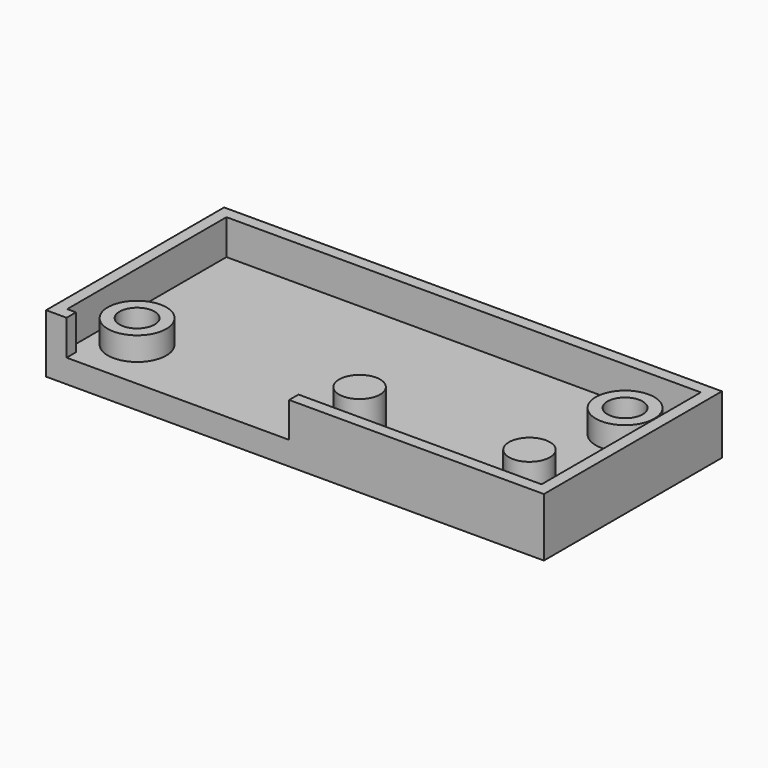
from build123d import *

# Parameters (mm, degrees)
SKETCH001_W   = 42.5
SKETCH001_H   = 19
SKETCH001_W_2 = 40.5
SKETCH001_H_2 = 17
PAD_DEPTH     = 3
SKETCH002_W   = 42.5
SKETCH002_H   = 19
SKETCH002_R   = 1.5
PAD001_DEPTH  = 2
SKETCH003_R   = 1.75
PAD002_DEPTH  = 3
POCKET_DEPTH  = 3.001
SKETCH005_R   = 2.5
SKETCH005_R_2 = 1.5
PAD003_DEPTH  = 2


with BuildPart() as part:
    # Sketch001 → Pad (new body)
    with BuildSketch(Plane.XY):
        with Locations((20, 8.1)):
            Rectangle(SKETCH001_W, SKETCH001_H)
        with Locations((20, 8.1)):
            Rectangle(SKETCH001_W_2, SKETCH001_H_2, mode=Mode.SUBTRACT)
    extrude(amount=PAD_DEPTH)

    # Sketch002 → Pad001 (join)
    with BuildSketch(Plane.XY):
        with Locations((20, 8.1)):
            Rectangle(SKETCH002_W, SKETCH002_H)
        with Locations((3, 3)):
            Circle(SKETCH002_R, mode=Mode.SUBTRACT)
        with Locations((36.5, 13.2)):
            Circle(SKETCH002_R, mode=Mode.SUBTRACT)
    extrude(amount=-PAD001_DEPTH)

    # Sketch003 → Pad002 (join)
    with BuildSketch(Plane.XY):
        with Locations((22, 3)):
            Circle(SKETCH003_R)
        with Locations((36.5, 3)):
            Circle(SKETCH003_R)
    extrude(amount=PAD002_DEPTH)

    # Sketch004 → Pocket (cut, through all)
    with BuildSketch(Plane.XY):
        Polygon((19.5, 0), (5.5, 0), (0.5, 0), (0.5, -1.4), (5.5, -1.4), (19.5, -1.4), align=None)
    extrude(amount=POCKET_DEPTH, mode=Mode.SUBTRACT)

    # Sketch005 → Pad003 (join)
    with BuildSketch(Plane.XY):
        with Locations((3, 3)):
            Circle(SKETCH005_R)
        with Locations((3, 3)):
            Circle(SKETCH005_R_2, mode=Mode.SUBTRACT)
        with Locations((36.5, 13.2)):
            Circle(SKETCH005_R)
        with Locations((36.5, 13.2)):
            Circle(SKETCH005_R_2, mode=Mode.SUBTRACT)
    extrude(amount=PAD003_DEPTH)


solid = part.part
